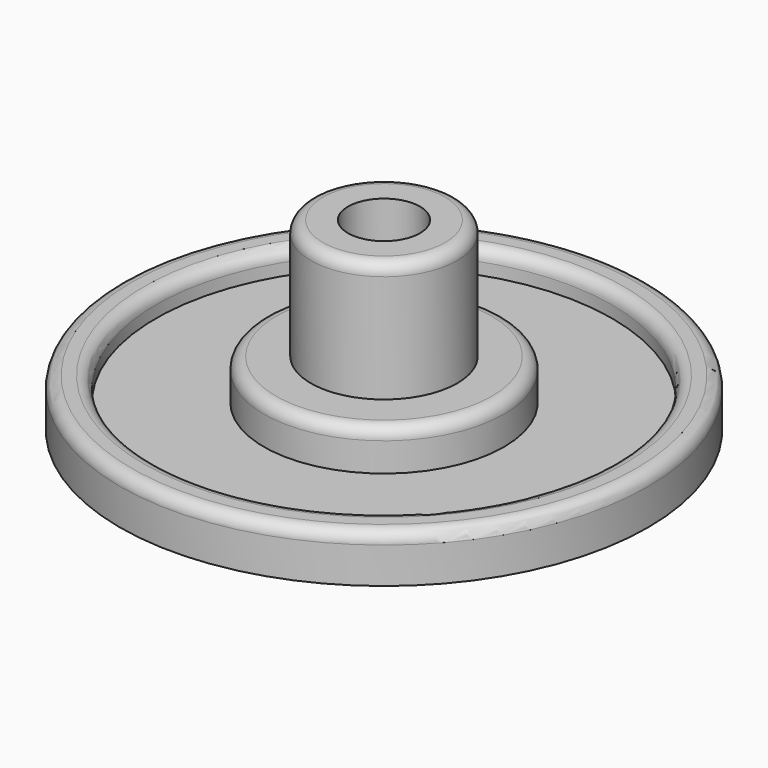
from build123d import *

# Parameters (mm, degrees)
F0_R     = 11
F1_DEPTH = 2
F2_R     = 9.5
F3_DEPTH = 1
F4_R     = 5
F5_DEPTH = 1.7
F6_R     = 3.05
F7_DEPTH = 5
F8_R     = 1.5
F9_DEPTH = 3
F10_R    = 0.5


with BuildPart() as f1:
    # F0 (on Top) → F1 (new body)
    with BuildSketch(Plane.XY):
        Circle(F0_R)
    extrude(amount=F1_DEPTH)

    # F2 (on face) → F3 (cut)
    with BuildSketch(Plane.XY.offset(2)):
        Circle(F2_R)
    extrude(amount=-F3_DEPTH, mode=Mode.SUBTRACT)

    # F4 (on face) → F5 (join)
    with BuildSketch(Plane.XY.offset(1)):
        Circle(F4_R)
    extrude(amount=F5_DEPTH)

    # F6 (on face) → F7 (join)
    with BuildSketch(Plane.XY.offset(2.7)):
        Circle(F6_R)
    extrude(amount=F7_DEPTH)

    # F8 (on face) → F9 (cut)
    with BuildSketch(Plane.XY.offset(7.7)):
        Circle(F8_R)
    extrude(amount=-F9_DEPTH, mode=Mode.SUBTRACT)

    # F10
    f10_edges = [f1.edges().sort_by_distance(p)[0] for p in [
        (-9.5, 0, 2),
        (-11, 0, 2),
        (-3.05, 0, 7.7),
        (-5, 0, 2.7),
    ]]
    fillet(f10_edges, radius=F10_R)


solid = f1.part
